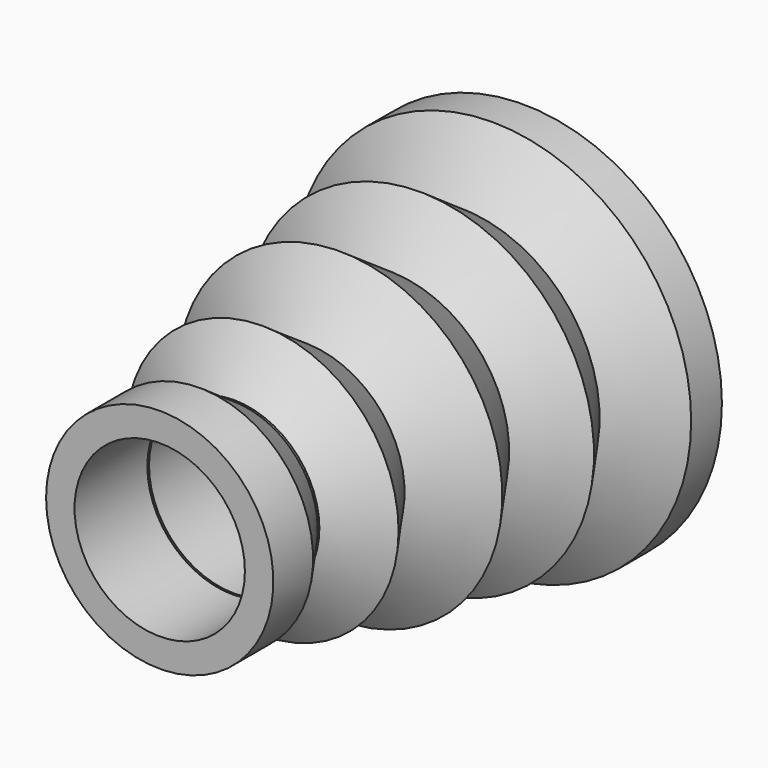
from build123d import *

# Parameters (mm, degrees)
F0_R     = 44.45
F0_R_2   = 19.05
F1_DEPTH = 101.6


with BuildPart() as f1:
    # F0 (on Front) → F1 (new body)
    with BuildSketch(Plane.XZ):
        Circle(F0_R)
        Circle(F0_R_2, mode=Mode.SUBTRACT)
    extrude(amount=F1_DEPTH)

    # F2 (on Top) → F3 (revolve, cut)
    with BuildSketch(Plane.XY):
        Polygon((-31.250484, -17.69579), (-44.997793, -8.221294), (-61.655592, -107.5316), (-25.415319, -107.5316), (-25.415319, -90.489018), (-18.828804, -80.932113), (-30.470701, -72.908644), (-22.217318, -60.933147), (-36.311842, -51.219353), (-26.798634, -37.415875), (-39.031138, -28.985365), align=None)
    revolve(axis=Axis((0, 0, 0), (0, -1, 0)), mode=Mode.SUBTRACT)


solid = f1.part
